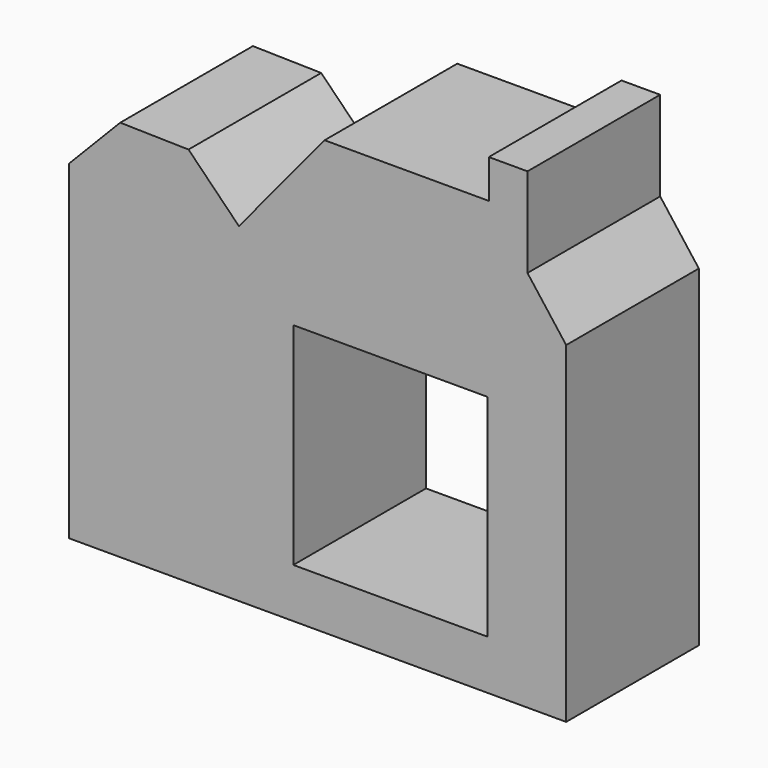
from build123d import *

# Parameters (mm, degrees)
F0_W      = 89.1198969167
F0_H      = 97.0041044056
F0_W_2    = 77.9982568039
F0_H_2    = 151.6424641013
F1_DEPTH  = 25.4
F2_DEPTH  = 25.4
F3_DEPTH  = 25.4
F4_DEPTH  = 25.4
F1_FACE_W = 89.1198969167
F1_FACE_H = 97.0041044056
F3_FACE_W = 89.1198969167
F3_FACE_H = 97.0041044056
F5_DEPTH  = 25.4


with BuildPart() as f1:
    # F0 (on Front) → F1 (new body)
    with BuildSketch(Plane.XZ):
        Polygon((-35.6096097335, 122.5330978632), (-74.9657242284, 74.9862343073), (75.3956741586, 75.7750719786), (57.6258252308, 99.1540849209), (39.8559763029, 122.5330978632), align=None)
        Polygon((75.3956741586, 75.7750719786), (-74.9657242284, 74.9862343073), (-74.9657242284, -76.656229794), (75.3956741586, -76.656229794), align=None)
        with Locations((-5.4095645109, -5.4363291711)):
            Rectangle(F0_W, F0_H, mode=Mode.SUBTRACT)
        with Locations((-113.9648526304, -0.8349977434)):
            Rectangle(F0_W_2, F0_H_2)
        Polygon((-152.9639810324, 74.9862343073), (-74.9657242284, 74.9862343073), (-98.1215983629, 98.4429121017), (-129.5073032379, 99.103666842), align=None)
        Polygon((39.8559763029, 140.2747780085), (39.8559763029, 122.5330978632), (57.6258252308, 99.1540849209), (57.6258252308, 140.2747780085), align=None)
    extrude(amount=F1_DEPTH)

    # F0 (on Front) → F2 (join)
    with BuildSketch(Plane.XZ):
        Polygon((-35.6096097335, 122.5330978632), (-74.9657242284, 74.9862343073), (75.3956741586, 75.7750719786), (57.6258252308, 99.1540849209), (39.8559763029, 122.5330978632), align=None)
        Polygon((75.3956741586, 75.7750719786), (-74.9657242284, 74.9862343073), (-74.9657242284, -76.656229794), (75.3956741586, -76.656229794), align=None)
        with Locations((-5.4095645109, -5.4363291711)):
            Rectangle(F0_W, F0_H, mode=Mode.SUBTRACT)
        with Locations((-113.9648526304, -0.8349977434)):
            Rectangle(F0_W_2, F0_H_2)
        Polygon((-152.9639810324, 74.9862343073), (-74.9657242284, 74.9862343073), (-98.1215983629, 98.4429121017), (-129.5073032379, 99.103666842), align=None)
        Polygon((39.8559763029, 140.2747780085), (39.8559763029, 122.5330978632), (57.6258252308, 99.1540849209), (57.6258252308, 140.2747780085), align=None)
    extrude(amount=F2_DEPTH)

    # F0 (on Front) → F3 (join)
    with BuildSketch(Plane.XZ):
        Polygon((-35.6096097335, 122.5330978632), (-74.9657242284, 74.9862343073), (75.3956741586, 75.7750719786), (57.6258252308, 99.1540849209), (39.8559763029, 122.5330978632), align=None)
        Polygon((75.3956741586, 75.7750719786), (-74.9657242284, 74.9862343073), (-74.9657242284, -76.656229794), (75.3956741586, -76.656229794), align=None)
        with Locations((-5.4095645109, -5.4363291711)):
            Rectangle(F0_W, F0_H, mode=Mode.SUBTRACT)
        with Locations((-113.9648526304, -0.8349977434)):
            Rectangle(F0_W_2, F0_H_2)
        Polygon((-152.9639810324, 74.9862343073), (-74.9657242284, 74.9862343073), (-98.1215983629, 98.4429121017), (-129.5073032379, 99.103666842), align=None)
        Polygon((39.8559763029, 140.2747780085), (39.8559763029, 122.5330978632), (57.6258252308, 99.1540849209), (57.6258252308, 140.2747780085), align=None)
    extrude(amount=-F3_DEPTH)

    # F0 (on Front) → F4 (join)
    with BuildSketch(Plane.XZ):
        Polygon((-35.6096097335, 122.5330978632), (-74.9657242284, 74.9862343073), (75.3956741586, 75.7750719786), (57.6258252308, 99.1540849209), (39.8559763029, 122.5330978632), align=None)
        Polygon((75.3956741586, 75.7750719786), (-74.9657242284, 74.9862343073), (-74.9657242284, -76.656229794), (75.3956741586, -76.656229794), align=None)
        with Locations((-5.4095645109, -5.4363291711)):
            Rectangle(F0_W, F0_H, mode=Mode.SUBTRACT)
        with Locations((-113.9648526304, -0.8349977434)):
            Rectangle(F0_W_2, F0_H_2)
        Polygon((-152.9639810324, 74.9862343073), (-74.9657242284, 74.9862343073), (-98.1215983629, 98.4429121017), (-129.5073032379, 99.103666842), align=None)
        Polygon((39.8559763029, 140.2747780085), (39.8559763029, 122.5330978632), (57.6258252308, 99.1540849209), (57.6258252308, 140.2747780085), align=None)
    extrude(amount=-F4_DEPTH)

    # F0 (on Front) + F1_face (on face) + F3_face (on face) → F5 (join)
    with BuildSketch(Plane.XZ):
        Polygon((39.8559763029, 140.2747780085), (39.8559763029, 122.5330978632), (57.6258252308, 99.1540849209), (57.6258252308, 140.2747780085), align=None)
        Polygon((-152.9639810324, 74.9862343073), (-74.9657242284, 74.9862343073), (-98.1215983629, 98.4429121017), (-129.5073032379, 99.103666842), align=None)
        Polygon((-35.6096097335, 122.5330978632), (-74.9657242284, 74.9862343073), (75.3956741586, 75.7750719786), (57.6258252308, 99.1540849209), (39.8559763029, 122.5330978632), align=None)
        with Locations((-113.9648526304, -0.8349977434)):
            Rectangle(F0_W_2, F0_H_2)
        Polygon((75.3956741586, 75.7750719786), (-74.9657242284, 74.9862343073), (-74.9657242284, -76.656229794), (75.3956741586, -76.656229794), align=None)
        with Locations((-5.4095645109, -5.4363291711)):
            Rectangle(F0_W, F0_H, mode=Mode.SUBTRACT)
    with BuildSketch(Plane(origin=(-42.5421584691, -25.4, 21.4383649256), x_dir=(1, 0, 0), z_dir=(0, -1, 0))):
        Polygon((117.9378326277, 54.336707053), (100.1679836999, 77.7157199953), (100.1679836999, 118.8364130829), (82.398134772, 118.8364130829), (82.398134772, 101.0947329376), (6.9325487356, 101.0947329376), (-32.4235657593, 53.5478693817), (-55.5794398938, 77.0045471761), (-86.9651447688, 77.6653019164), (-110.4218225632, 53.5478693817), (-110.4218225632, -98.0945947196), (117.9378326277, -98.0945947196), align=None)
        with Locations((37.1325939582, -26.8746940967)):
            Rectangle(F1_FACE_W, F1_FACE_H, mode=Mode.SUBTRACT)
    with BuildSketch(Plane(origin=(-42.5421584691, 25.4, 21.4383649256), x_dir=(1, 0, 0), z_dir=(0, 1, 0))):
        Polygon((100.1679836999, -77.7157199953), (117.9378326277, -54.336707053), (117.9378326277, 98.0945947196), (-110.4218225632, 98.0945947196), (-110.4218225632, -53.5478693817), (-86.9651447688, -77.6653019164), (-55.5794398938, -77.0045471761), (-32.4235657593, -53.5478693817), (6.9325487356, -101.0947329376), (82.398134772, -101.0947329376), (82.398134772, -118.8364130829), (100.1679836999, -118.8364130829), align=None)
        with Locations((37.1325939582, 26.8746940967)):
            Rectangle(F3_FACE_W, F3_FACE_H, mode=Mode.SUBTRACT)
    extrude(amount=F5_DEPTH, dir=(0, -1, 0))


solid = f1.part
